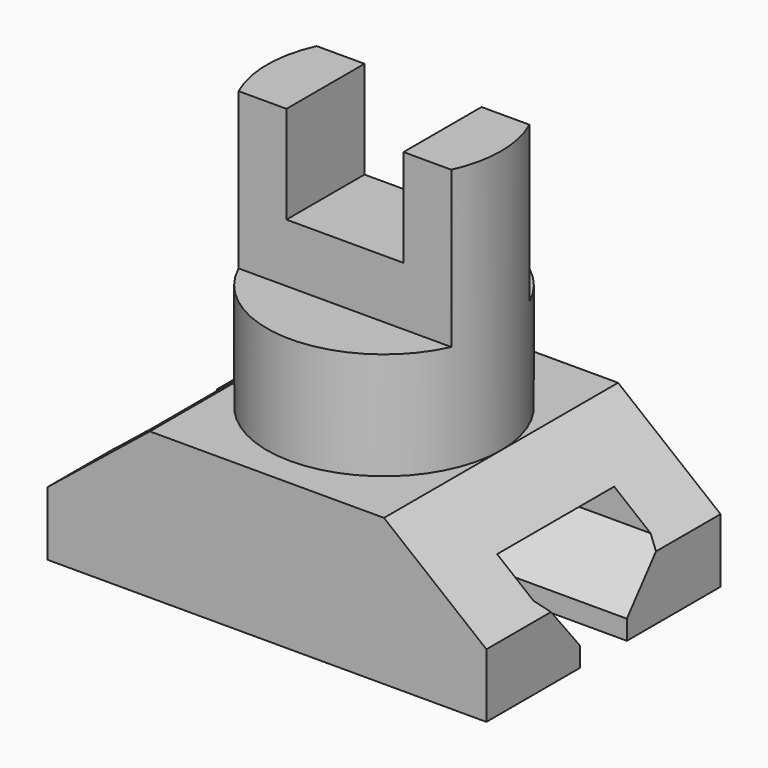
from build123d import *

# Parameters (mm, degrees)
F1_DEPTH = 300
F2_R     = 120
F3_DEPTH = 270
F4_W     = 308.2067033212
F4_H     = 85.1061673835
F4_H_2   = 71.9743549824
F5_DEPTH = 160
F6_W     = 120
F6_H     = 100
F7_DEPTH = 100
F8_W     = 60
F8_H     = 40
F9_DEPTH = 450.001


with BuildPart() as f1:
    # F0 (on Front) → F1 (new body)
    with BuildSketch(Plane.XZ):
        Polygon((-225, -9.4181643799), (-225, -75), (225, -75), (225, -9.4181643799), (120, 75), (-120, 75), align=None)
    extrude(amount=F1_DEPTH)

    # F2 (on face) → F3 (join)
    with BuildSketch(Plane.XY.offset(75)):
        with Locations((0, -150)):
            Circle(F2_R)
    extrude(amount=F3_DEPTH)

    # F4 (on face) → F5 (cut)
    with BuildSketch(Plane.XY.offset(345)):
        with Locations((0, -57.4469163083)):
            Rectangle(F4_W, F4_H)
        with Locations((0, -235.9871774912)):
            Rectangle(F4_W, F4_H_2)
    extrude(amount=-F5_DEPTH, mode=Mode.SUBTRACT)

    # F6 (on face) → F7 (cut)
    with BuildSketch(Plane.XY.offset(345)):
        with Locations((0, -150)):
            Rectangle(F6_W, F6_H)
    extrude(amount=-F7_DEPTH, mode=Mode.SUBTRACT)

    # F8 (on face) → F9 (cut, through all)
    with BuildSketch(Plane(origin=(-225, 0, 0), x_dir=(0, -1, 0), z_dir=(-1, 0, 0))):
        with Locations((150, -75)):
            Rectangle(F8_W, F8_H)
        Polygon((75, 0), (120, -55), (180, -55), (225, 0), (225, 30), (75, 30), align=None)
    extrude(amount=-F9_DEPTH, mode=Mode.SUBTRACT)


solid = f1.part
